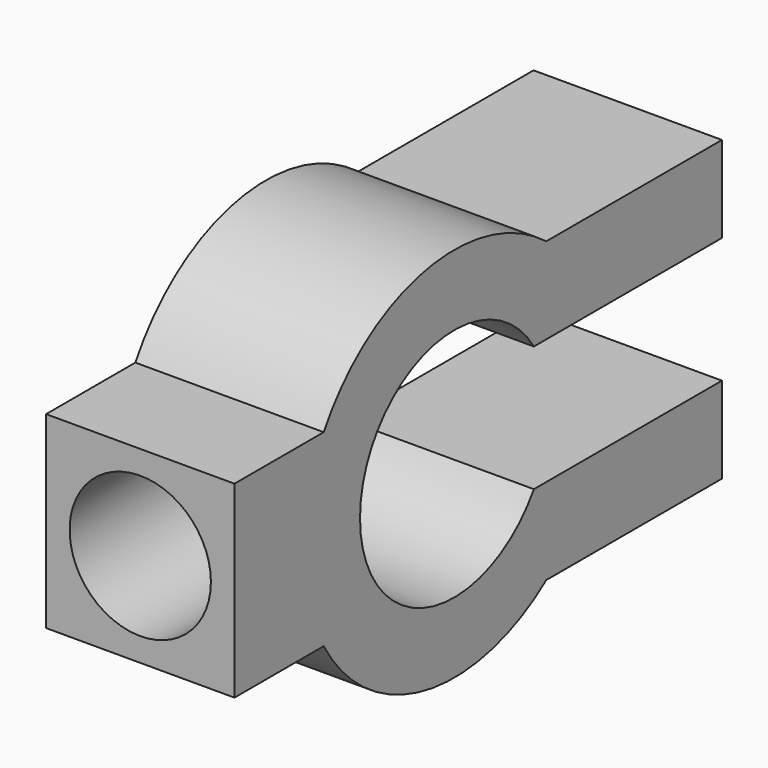
from build123d import *

# Parameters (mm, degrees)
F1_DEPTH = 24
F2_R     = 9
F3_DEPTH = 24.0000001


with BuildPart() as f1:
    # F0 (on Right) → F1 (new body)
    with BuildSketch(Plane.YZ):
        with BuildLine():
            Line((42.6360070705, 19), (14.6628782986, 19))
            ThreePointArc((14.6628782986, 19), (-4.6496127591, 23.5452989191), (-20.7846096908, 12))
            Line((-20.7846096908, 12), (-35, 12))
            Line((-35, 12), (-35, -12))
            Line((-35, -12), (-20.7846096908, -12))
            ThreePointArc((-20.7846096908, -12), (-4.6496127591, -23.5452989191), (14.6628782986, -19))
            Line((14.6628782986, -19), (42.6360070705, -19))
            Line((42.6360070705, -19), (42.6360070705, -8))
            Line((42.6360070705, -8), (12.6885775404, -8))
            ThreePointArc((12.6885775404, -8), (-15, 0), (12.6885775404, 8))
            Line((12.6885775404, 8), (42.6360070705, 8))
            Line((42.6360070705, 8), (42.6360070705, 19))
        make_face()
    extrude(amount=-F1_DEPTH)

    # F2 (on face) → F3 (cut, up to face)
    with BuildSketch(Plane.XZ.offset(35)):
        with Locations((-12, 0)):
            Circle(F2_R)
    extrude(amount=-F3_DEPTH, mode=Mode.SUBTRACT)


solid = f1.part
